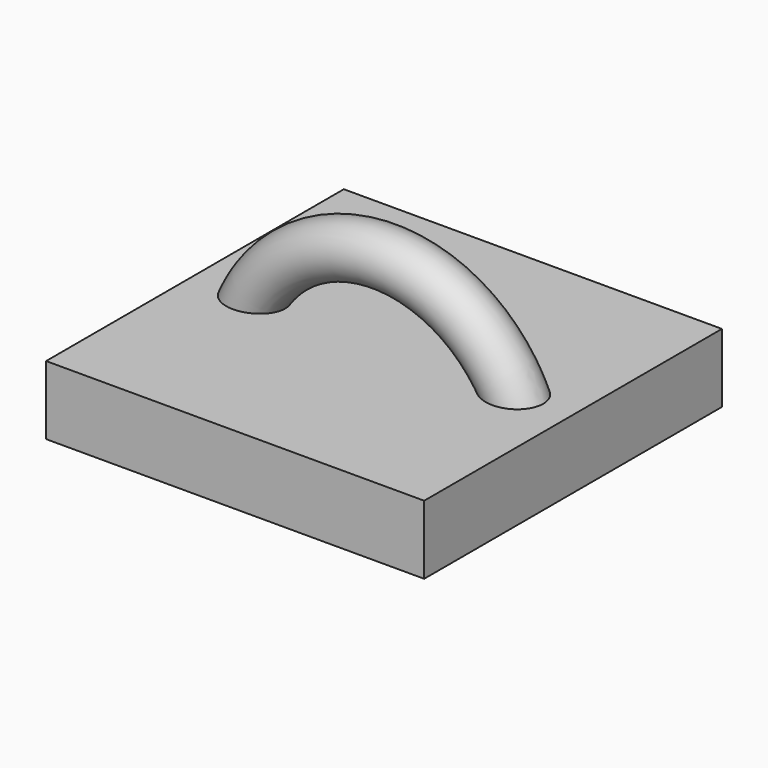
from build123d import *

# Parameters (mm, degrees)
F1_R     = 9.824635
F2_ANGLE = 180
F0_W     = 69.863096
F0_H     = 137.526572
F3_DEPTH = 25.4


with BuildPart() as f2:
    # F1 (on Top) → F2 (revolve)
    with BuildSketch(Plane.XY):
        with Locations((54.264009, 0)):
            Circle(F1_R)
    revolve(axis=Axis((0, 0, 0), (0, -1, 0)), revolution_arc=F2_ANGLE)

    # F0 (on Top) → F3 (join)
    with BuildSketch(Plane.XY):
        with Locations((-34.931548, 0)):
            Rectangle(F0_W, F0_H)
        with Locations((34.931548, 0)):
            Rectangle(F0_W, F0_H)
    extrude(amount=F3_DEPTH)


solid = f2.part
